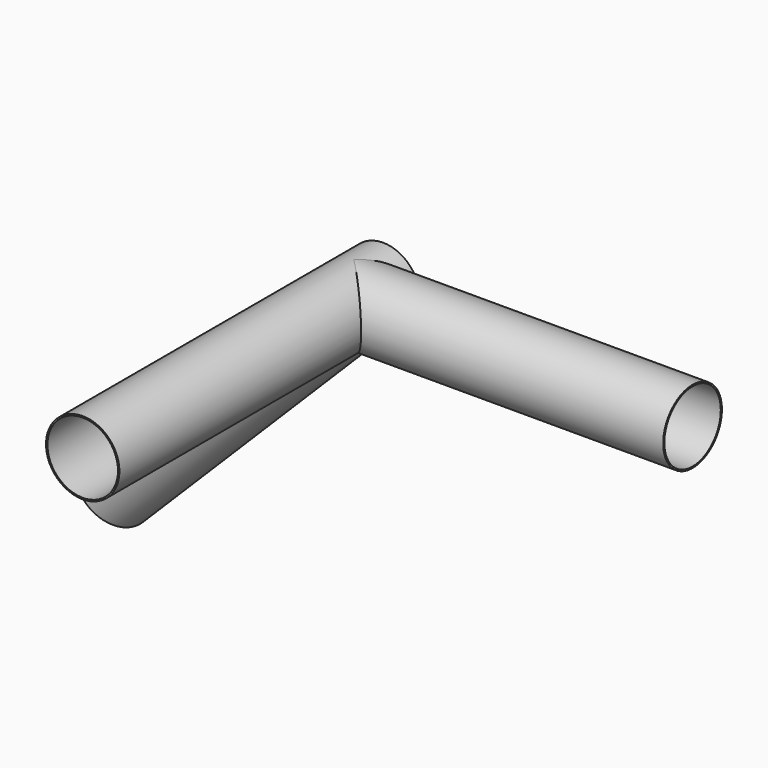
from build123d import *

# Parameters (mm, degrees)
F0_R          = 16.51
F1_DEPTH      = 152.4
F1_DEPTH_BACK = 152.4
F2_R          = 16.51
F3_DEPTH      = 152.4
F5_R          = 16.51
F6_DEPTH      = 152.4
F7_R          = 15.875
F8_DEPTH      = 304.801
F9_R          = 15.875
F10_DEPTH     = 152.41
F11_R         = 15.875
F12_DEPTH     = 152.41
F13_R         = 16.51
F14_DEPTH     = 135.89
F15_R         = 16.51
F16_DEPTH     = 1.27


with BuildPart() as f1:
    # F0 (on Front) → F1 (new body, two sides)
    with BuildSketch(Plane.XZ) as f1_sk:
        Circle(F0_R)
    extrude(amount=F1_DEPTH)
    extrude(f1_sk.sketch, amount=-F1_DEPTH_BACK)

    # F2 (on Right) → F3 (join)
    with BuildSketch(Plane.YZ):
        Circle(F2_R)
    extrude(amount=F3_DEPTH)

    # F5 (on face) → F6 (join)
    with BuildSketch(Plane(origin=(0, 0, 0), x_dir=(0, 1, 0), z_dir=(0.7071067812, 0, 0.7071067812))):
        Circle(F5_R)
    extrude(amount=-F6_DEPTH)

    # F7 (on face) → F8 (cut, through all)
    with BuildSketch(Plane.XZ.offset(152.4)):
        Circle(F7_R)
    extrude(amount=-F8_DEPTH, mode=Mode.SUBTRACT)

    # F9 (on face) → F10 (cut, up to face)
    with BuildSketch(Plane.YZ.offset(152.4)):
        Circle(F9_R)
    extrude(amount=-F10_DEPTH, mode=Mode.SUBTRACT)

    # F11 (on face) → F12 (cut, up to face)
    with BuildSketch(Plane(origin=(-107.7630734528, 0, -107.7630734528), x_dir=(0, -1, 0), z_dir=(-0.7071067812, 0, -0.7071067812))):
        Circle(F11_R)
    extrude(amount=-F12_DEPTH, mode=Mode.SUBTRACT)

    # F13 (on face) → F14 (cut)
    with BuildSketch(Plane(origin=(0, 152.4, 0), x_dir=(-1, 0, 0), z_dir=(0, 1, 0))):
        Circle(F13_R)
    extrude(amount=-F14_DEPTH, mode=Mode.SUBTRACT)

    # F15 (on face) → F16 (join)
    with BuildSketch(Plane(origin=(0, 16.51, 0), x_dir=(-1, 0, 0), z_dir=(0, 1, 0))):
        Circle(F15_R)
    extrude(amount=-F16_DEPTH)


solid = f1.part
